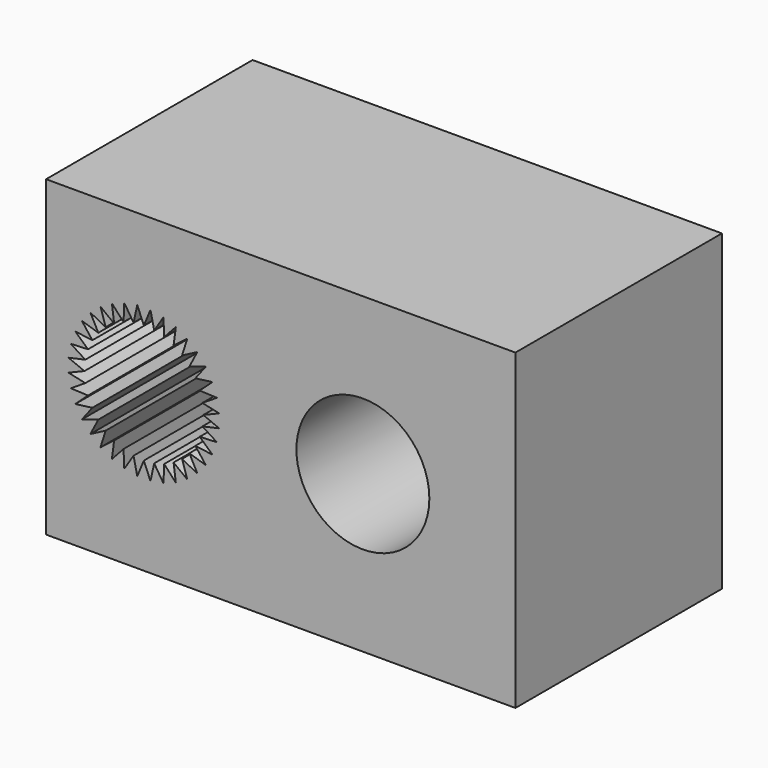
from build123d import *

# Parameters (mm, degrees)
F0_W     = 30
F0_H     = 20
F0_R     = 3.8
F1_DEPTH = 6.5
F2_W     = 30
F2_H     = 20
F2_R     = 3.8
F2_R_2   = 4.25
F3_DEPTH = 10
F5_DEPTH = 25


with BuildPart() as f1:
    # F0 (on Front) → F1 (new body)
    with BuildSketch(Plane.XZ):
        with Locations((-15, 10)):
            Rectangle(F0_W, F0_H)
        Polygon((-3, 6.102885683), (-9.75, 2.2057713659), (-16.5, 6.102885683), (-16.5, 13.897114317), (-9.75, 17.7942286341), (-3, 13.897114317), align=None, mode=Mode.SUBTRACT)
        with Locations((-23.75, 10)):
            Circle(F0_R, mode=Mode.SUBTRACT)
    extrude(amount=F1_DEPTH)

    # F2 (on face) → F3 (join)
    with BuildSketch(Plane.XZ.offset(6.5)):
        with Locations((-15, 10)):
            Rectangle(F2_W, F2_H)
        with Locations((-23.75, 10)):
            Circle(F2_R, mode=Mode.SUBTRACT)
        with Locations((-9.75, 10)):
            Circle(F2_R_2, mode=Mode.SUBTRACT)
    extrude(amount=F3_DEPTH)

    # F4 (on face) → F5 (cut)
    with BuildSketch(Plane(origin=(0, 0, 0), x_dir=(-1, 0, 0), z_dir=(0, 1, 0))):
        with BuildLine():
            ThreePointArc((23.0901369249, 13.7422694614), (23.4188081776, 13.7855398527), (23.75, 13.8))
            Line((23.75, 13.8), (23.3285195244, 14.8175438804))
            Line((23.3285195244, 14.8175438804), (23.0901369249, 13.7422694614))
        make_face()
        with BuildLine():
            Line((24.1714804756, 14.8175438804), (23.75, 13.8))
            ThreePointArc((23.75, 13.8), (24.0811918224, 13.7855398527), (24.4098630751, 13.7422694614))
            Line((24.4098630751, 13.7422694614), (24.1714804756, 14.8175438804))
        make_face()
        with BuildLine():
            ThreePointArc((24.4098630751, 13.7422694614), (24.0811918224, 13.7855398527), (23.75, 13.8))
            ThreePointArc((23.75, 13.8), (23.4188081776, 13.7855398527), (23.0901369249, 13.7422694614))
            ThreePointArc((23.0901369249, 13.7422694614), (22.7664876286, 13.6705181399), (22.4503234554, 13.570831959))
            ThreePointArc((22.4503234554, 13.570831959), (22.1440506054, 13.4439695907), (21.85, 13.2908965344))
            ThreePointArc((21.85, 13.2908965344), (21.5704095419, 13.1127777683), (21.3074070832, 12.9109688839))
            ThreePointArc((21.3074070832, 12.9109688839), (21.0629942315, 12.6870057685), (20.8390311161, 12.4425929168))
            ThreePointArc((20.8390311161, 12.4425929168), (20.6372222317, 12.1795904581), (20.4591034656, 11.9))
            ThreePointArc((20.4591034656, 11.9), (20.3060304093, 11.6059493946), (20.179168041, 11.2996765446))
            ThreePointArc((20.179168041, 11.2996765446), (20.0794818601, 10.9835123714), (20.0077305386, 10.6598630751))
            ThreePointArc((20.0077305386, 10.6598630751), (19.9644601473, 10.3311918224), (19.95, 10))
            ThreePointArc((19.95, 10), (19.9644601473, 9.6688081776), (20.0077305386, 9.3401369249))
            ThreePointArc((20.0077305386, 9.3401369249), (20.0794818601, 9.0164876286), (20.179168041, 8.7003234554))
            ThreePointArc((20.179168041, 8.7003234554), (20.3060304093, 8.3940506054), (20.4591034656, 8.1))
            ThreePointArc((20.4591034656, 8.1), (20.6372222317, 7.8204095419), (20.8390311161, 7.5574070832))
            ThreePointArc((20.8390311161, 7.5574070832), (21.0629942315, 7.3129942315), (21.3074070832, 7.0890311161))
            ThreePointArc((21.3074070832, 7.0890311161), (21.5704095419, 6.8872222317), (21.85, 6.7091034656))
            ThreePointArc((21.85, 6.7091034656), (22.1440506054, 6.5560304093), (22.4503234554, 6.429168041))
            ThreePointArc((22.4503234554, 6.429168041), (22.7664876286, 6.3294818601), (23.0901369249, 6.2577305386))
            ThreePointArc((23.0901369249, 6.2577305386), (23.4188081776, 6.2144601473), (23.75, 6.2))
            ThreePointArc((23.75, 6.2), (24.0811918224, 6.2144601473), (24.4098630751, 6.2577305386))
            ThreePointArc((24.4098630751, 6.2577305386), (24.7335123714, 6.3294818601), (25.0496765446, 6.429168041))
            ThreePointArc((25.0496765446, 6.429168041), (25.3559493946, 6.5560304093), (25.65, 6.7091034656))
            ThreePointArc((25.65, 6.7091034656), (25.9295904581, 6.8872222317), (26.1925929168, 7.0890311161))
            ThreePointArc((26.1925929168, 7.0890311161), (26.4370057685, 7.3129942315), (26.6609688839, 7.5574070832))
            ThreePointArc((26.6609688839, 7.5574070832), (26.8627777683, 7.8204095419), (27.0408965344, 8.1))
            ThreePointArc((27.0408965344, 8.1), (27.1939695907, 8.3940506054), (27.320831959, 8.7003234554))
            ThreePointArc((27.320831959, 8.7003234554), (27.4205181399, 9.0164876286), (27.4922694614, 9.3401369249))
            ThreePointArc((27.4922694614, 9.3401369249), (27.5355398527, 9.6688081776), (27.55, 10))
            ThreePointArc((27.55, 10), (27.5355398527, 10.3311918224), (27.4922694614, 10.6598630751))
            ThreePointArc((27.4922694614, 10.6598630751), (27.4205181399, 10.9835123714), (27.320831959, 11.2996765446))
            ThreePointArc((27.320831959, 11.2996765446), (27.1939695907, 11.6059493946), (27.0408965344, 11.9))
            ThreePointArc((27.0408965344, 11.9), (26.8627777683, 12.1795904581), (26.6609688839, 12.4425929168))
            ThreePointArc((26.6609688839, 12.4425929168), (26.4370057685, 12.6870057685), (26.1925929168, 12.9109688839))
            ThreePointArc((26.1925929168, 12.9109688839), (25.9295904581, 13.1127777683), (25.65, 13.2908965344))
            ThreePointArc((25.65, 13.2908965344), (25.3559493946, 13.4439695907), (25.0496765446, 13.570831959))
            ThreePointArc((25.0496765446, 13.570831959), (24.7335123714, 13.6705181399), (24.4098630751, 13.7422694614))
        make_face()
        with BuildLine():
            Line((25.0016349558, 14.6711652474), (24.4098630751, 13.7422694614))
            ThreePointArc((24.4098630751, 13.7422694614), (24.7335123714, 13.6705181399), (25.0496765446, 13.570831959))
            Line((25.0496765446, 13.570831959), (25.0016349558, 14.6711652474))
        make_face()
        with BuildLine():
            ThreePointArc((22.4503234554, 13.570831959), (22.7664876286, 13.6705181399), (23.0901369249, 13.7422694614))
            Line((23.0901369249, 13.7422694614), (22.4983650442, 14.6711652474))
            Line((22.4983650442, 14.6711652474), (22.4503234554, 13.570831959))
        make_face()
        with BuildLine():
            Line((25.7937591412, 14.3828556221), (25.0496765446, 13.570831959))
            ThreePointArc((25.0496765446, 13.570831959), (25.3559493946, 13.4439695907), (25.65, 13.2908965344))
            Line((25.65, 13.2908965344), (25.7937591412, 14.3828556221))
        make_face()
        with BuildLine():
            ThreePointArc((21.85, 13.2908965344), (22.1440506054, 13.4439695907), (22.4503234554, 13.570831959))
            Line((22.4503234554, 13.570831959), (21.7062408588, 14.3828556221))
            Line((21.7062408588, 14.3828556221), (21.85, 13.2908965344))
        make_face()
        with BuildLine():
            Line((26.5237847392, 13.9613751465), (25.65, 13.2908965344))
            ThreePointArc((25.65, 13.2908965344), (25.9295904581, 13.1127777683), (26.1925929168, 12.9109688839))
            Line((26.1925929168, 12.9109688839), (26.5237847392, 13.9613751465))
        make_face()
        with BuildLine():
            ThreePointArc((21.3074070832, 12.9109688839), (21.5704095419, 13.1127777683), (21.85, 13.2908965344))
            Line((21.85, 13.2908965344), (20.9762152608, 13.9613751465))
            Line((20.9762152608, 13.9613751465), (21.3074070832, 12.9109688839))
        make_face()
        with BuildLine():
            Line((27.1695302916, 13.4195302916), (26.1925929168, 12.9109688839))
            ThreePointArc((26.1925929168, 12.9109688839), (26.4370057685, 12.6870057685), (26.6609688839, 12.4425929168))
            Line((26.6609688839, 12.4425929168), (27.1695302916, 13.4195302916))
        make_face()
        with BuildLine():
            ThreePointArc((20.8390311161, 12.4425929168), (21.0629942315, 12.6870057685), (21.3074070832, 12.9109688839))
            Line((21.3074070832, 12.9109688839), (20.3304697084, 13.4195302916))
            Line((20.3304697084, 13.4195302916), (20.8390311161, 12.4425929168))
        make_face()
        with BuildLine():
            Line((27.7113751465, 12.7737847392), (26.6609688839, 12.4425929168))
            ThreePointArc((26.6609688839, 12.4425929168), (26.8627777683, 12.1795904581), (27.0408965344, 11.9))
            Line((27.0408965344, 11.9), (27.7113751465, 12.7737847392))
        make_face()
        with BuildLine():
            ThreePointArc((20.4591034656, 11.9), (20.6372222317, 12.1795904581), (20.8390311161, 12.4425929168))
            Line((20.8390311161, 12.4425929168), (19.7886248535, 12.7737847392))
            Line((19.7886248535, 12.7737847392), (20.4591034656, 11.9))
        make_face()
        with BuildLine():
            Line((28.1328556221, 12.0437591412), (27.0408965344, 11.9))
            ThreePointArc((27.0408965344, 11.9), (27.1939695907, 11.6059493946), (27.320831959, 11.2996765446))
            Line((27.320831959, 11.2996765446), (28.1328556221, 12.0437591412))
        make_face()
        with BuildLine():
            ThreePointArc((20.179168041, 11.2996765446), (20.3060304093, 11.6059493946), (20.4591034656, 11.9))
            Line((20.4591034656, 11.9), (19.3671443779, 12.0437591412))
            Line((19.3671443779, 12.0437591412), (20.179168041, 11.2996765446))
        make_face()
        with BuildLine():
            Line((28.4211652474, 11.2516349558), (27.320831959, 11.2996765446))
            ThreePointArc((27.320831959, 11.2996765446), (27.4205181399, 10.9835123714), (27.4922694614, 10.6598630751))
            Line((27.4922694614, 10.6598630751), (28.4211652474, 11.2516349558))
        make_face()
        with BuildLine():
            ThreePointArc((20.0077305386, 10.6598630751), (20.0794818601, 10.9835123714), (20.179168041, 11.2996765446))
            Line((20.179168041, 11.2996765446), (19.0788347526, 11.2516349558))
            Line((19.0788347526, 11.2516349558), (20.0077305386, 10.6598630751))
        make_face()
        with BuildLine():
            Line((28.5675438804, 10.4214804756), (27.4922694614, 10.6598630751))
            ThreePointArc((27.4922694614, 10.6598630751), (27.5355398527, 10.3311918224), (27.55, 10))
            Line((27.55, 10), (28.5675438804, 10.4214804756))
        make_face()
        with BuildLine():
            ThreePointArc((19.95, 10), (19.9644601473, 10.3311918224), (20.0077305386, 10.6598630751))
            Line((20.0077305386, 10.6598630751), (18.9324561196, 10.4214804756))
            Line((18.9324561196, 10.4214804756), (19.95, 10))
        make_face()
        with BuildLine():
            Line((28.5675438804, 9.5785195244), (27.55, 10))
            ThreePointArc((27.55, 10), (27.5355398527, 9.6688081776), (27.4922694614, 9.3401369249))
            Line((27.4922694614, 9.3401369249), (28.5675438804, 9.5785195244))
        make_face()
        with BuildLine():
            ThreePointArc((20.0077305386, 9.3401369249), (19.9644601473, 9.6688081776), (19.95, 10))
            Line((19.95, 10), (18.9324561196, 9.5785195244))
            Line((18.9324561196, 9.5785195244), (20.0077305386, 9.3401369249))
        make_face()
        with BuildLine():
            Line((28.4211652474, 8.7483650442), (27.4922694614, 9.3401369249))
            ThreePointArc((27.4922694614, 9.3401369249), (27.4205181399, 9.0164876286), (27.320831959, 8.7003234554))
            Line((27.320831959, 8.7003234554), (28.4211652474, 8.7483650442))
        make_face()
        with BuildLine():
            ThreePointArc((20.179168041, 8.7003234554), (20.0794818601, 9.0164876286), (20.0077305386, 9.3401369249))
            Line((20.0077305386, 9.3401369249), (19.0788347526, 8.7483650442))
            Line((19.0788347526, 8.7483650442), (20.179168041, 8.7003234554))
        make_face()
        with BuildLine():
            Line((28.1328556221, 7.9562408588), (27.320831959, 8.7003234554))
            ThreePointArc((27.320831959, 8.7003234554), (27.1939695907, 8.3940506054), (27.0408965344, 8.1))
            Line((27.0408965344, 8.1), (28.1328556221, 7.9562408588))
        make_face()
        with BuildLine():
            ThreePointArc((20.4591034656, 8.1), (20.3060304093, 8.3940506054), (20.179168041, 8.7003234554))
            Line((20.179168041, 8.7003234554), (19.3671443779, 7.9562408588))
            Line((19.3671443779, 7.9562408588), (20.4591034656, 8.1))
        make_face()
        with BuildLine():
            Line((27.7113751465, 7.2262152608), (27.0408965344, 8.1))
            ThreePointArc((27.0408965344, 8.1), (26.8627777683, 7.8204095419), (26.6609688839, 7.5574070832))
            Line((26.6609688839, 7.5574070832), (27.7113751465, 7.2262152608))
        make_face()
        with BuildLine():
            ThreePointArc((20.8390311161, 7.5574070832), (20.6372222317, 7.8204095419), (20.4591034656, 8.1))
            Line((20.4591034656, 8.1), (19.7886248535, 7.2262152608))
            Line((19.7886248535, 7.2262152608), (20.8390311161, 7.5574070832))
        make_face()
        with BuildLine():
            Line((27.1695302916, 6.5804697084), (26.6609688839, 7.5574070832))
            ThreePointArc((26.6609688839, 7.5574070832), (26.4370057685, 7.3129942315), (26.1925929168, 7.0890311161))
            Line((26.1925929168, 7.0890311161), (27.1695302916, 6.5804697084))
        make_face()
        with BuildLine():
            ThreePointArc((21.3074070832, 7.0890311161), (21.0629942315, 7.3129942315), (20.8390311161, 7.5574070832))
            Line((20.8390311161, 7.5574070832), (20.3304697084, 6.5804697084))
            Line((20.3304697084, 6.5804697084), (21.3074070832, 7.0890311161))
        make_face()
        with BuildLine():
            Line((26.5237847392, 6.0386248535), (26.1925929168, 7.0890311161))
            ThreePointArc((26.1925929168, 7.0890311161), (25.9295904581, 6.8872222317), (25.65, 6.7091034656))
            Line((25.65, 6.7091034656), (26.5237847392, 6.0386248535))
        make_face()
        with BuildLine():
            ThreePointArc((21.85, 6.7091034656), (21.5704095419, 6.8872222317), (21.3074070832, 7.0890311161))
            Line((21.3074070832, 7.0890311161), (20.9762152608, 6.0386248535))
            Line((20.9762152608, 6.0386248535), (21.85, 6.7091034656))
        make_face()
        with BuildLine():
            Line((25.7937591412, 5.6171443779), (25.65, 6.7091034656))
            ThreePointArc((25.65, 6.7091034656), (25.3559493946, 6.5560304093), (25.0496765446, 6.429168041))
            Line((25.0496765446, 6.429168041), (25.7937591412, 5.6171443779))
        make_face()
        with BuildLine():
            ThreePointArc((22.4503234554, 6.429168041), (22.1440506054, 6.5560304093), (21.85, 6.7091034656))
            Line((21.85, 6.7091034656), (21.7062408588, 5.6171443779))
            Line((21.7062408588, 5.6171443779), (22.4503234554, 6.429168041))
        make_face()
        with BuildLine():
            Line((25.0016349558, 5.3288347526), (25.0496765446, 6.429168041))
            ThreePointArc((25.0496765446, 6.429168041), (24.7335123714, 6.3294818601), (24.4098630751, 6.2577305386))
            Line((24.4098630751, 6.2577305386), (25.0016349558, 5.3288347526))
        make_face()
        with BuildLine():
            ThreePointArc((23.0901369249, 6.2577305386), (22.7664876286, 6.3294818601), (22.4503234554, 6.429168041))
            Line((22.4503234554, 6.429168041), (22.4983650442, 5.3288347526))
            Line((22.4983650442, 5.3288347526), (23.0901369249, 6.2577305386))
        make_face()
        with BuildLine():
            Line((24.1714804756, 5.1824561196), (24.4098630751, 6.2577305386))
            ThreePointArc((24.4098630751, 6.2577305386), (24.0811918224, 6.2144601473), (23.75, 6.2))
            Line((23.75, 6.2), (24.1714804756, 5.1824561196))
        make_face()
        with BuildLine():
            ThreePointArc((23.75, 6.2), (23.4188081776, 6.2144601473), (23.0901369249, 6.2577305386))
            Line((23.0901369249, 6.2577305386), (23.3285195244, 5.1824561196))
            Line((23.3285195244, 5.1824561196), (23.75, 6.2))
        make_face()
    extrude(amount=-F5_DEPTH, mode=Mode.SUBTRACT)


solid = f1.part
